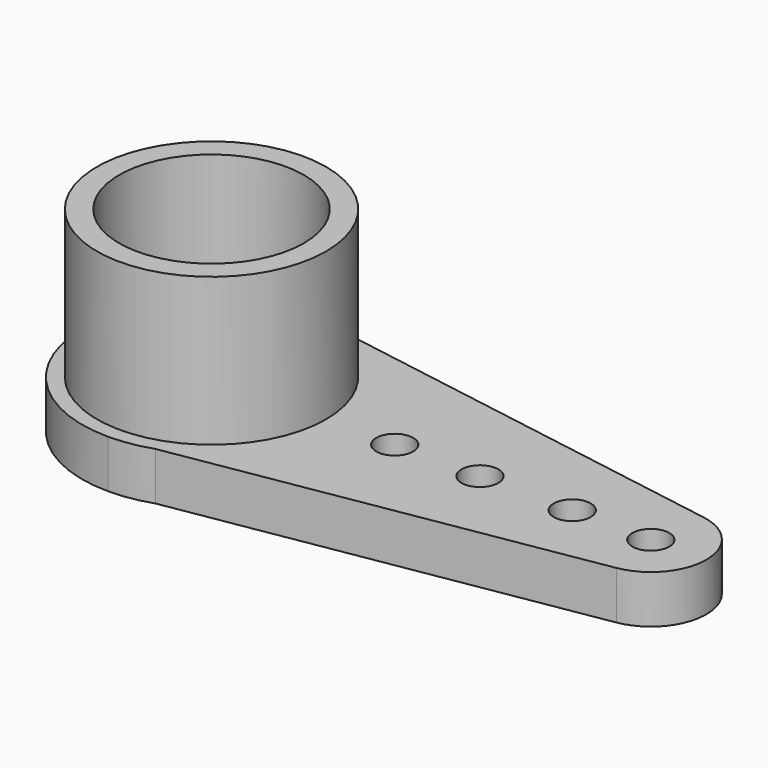
from build123d import *

# Parameters (mm, degrees)
F0_R     = 0.5
F0_R_2   = 1.5
F1_DEPTH = 1.3
F2_R     = 3.100563
F2_R_2   = 2.5
F3_DEPTH = 4


with BuildPart() as f1:
    # F0 (on Top) → F1 (new body)
    with BuildSketch(Plane.XY):
        with BuildLine():
            Line((0, 3.5), (1.133792, 3.311271))
            ThreePointArc((1.133792, 3.311271), (0.574696, 3.452495), (0, 3.5))
        make_face()
        with BuildLine():
            Line((12.137337, 1.479641), (1.133792, 3.311271))
            Line((1.133792, 3.311271), (0, 3.5))
            ThreePointArc((0, 3.5), (-3.5, 0), (0, -3.5))
            Line((0, -3.5), (1.133792, -3.311271))
            Line((1.133792, -3.311271), (12.137337, -1.479641))
            ThreePointArc((12.137337, -1.479641), (13.391038, 0), (12.137337, 1.479641))
        make_face()
        with Locations((11.903072, -0.018695)):
            Circle(F0_R, mode=Mode.SUBTRACT)
        Circle(F0_R_2, mode=Mode.SUBTRACT)
        with Locations((4.957838, 0)):
            Circle(F0_R, mode=Mode.SUBTRACT)
        with Locations((7.263765, 0)):
            Circle(F0_R, mode=Mode.SUBTRACT)
        with Locations((9.761854, 0)):
            Circle(F0_R, mode=Mode.SUBTRACT)
        with BuildLine():
            Line((1.133792, -3.311271), (0, -3.5))
            ThreePointArc((0, -3.5), (0.574696, -3.452495), (1.133792, -3.311271))
        make_face()
        with BuildLine():
            Line((12.137337, 1.479641), (1.133792, 3.311271))
            Line((1.133792, 3.311271), (0, 3.5))
            ThreePointArc((0, 3.5), (-3.5, 0), (0, -3.5))
            Line((0, -3.5), (1.133792, -3.311271))
            Line((1.133792, -3.311271), (12.137337, -1.479641))
            ThreePointArc((12.137337, -1.479641), (13.391038, 0), (12.137337, 1.479641))
        make_face()
        with Locations((11.903072, -0.018695)):
            Circle(F0_R, mode=Mode.SUBTRACT)
        Circle(F0_R_2, mode=Mode.SUBTRACT)
        with Locations((4.957838, 0)):
            Circle(F0_R, mode=Mode.SUBTRACT)
        with Locations((7.263765, 0)):
            Circle(F0_R, mode=Mode.SUBTRACT)
        with Locations((9.761854, 0)):
            Circle(F0_R, mode=Mode.SUBTRACT)
    extrude(amount=F1_DEPTH)

    # F2 (on face) → F3 (join)
    with BuildSketch(Plane.XY.offset(1.3)):
        Circle(F2_R)
        Circle(F2_R_2, mode=Mode.SUBTRACT)
    extrude(amount=F3_DEPTH)


solid = f1.part
